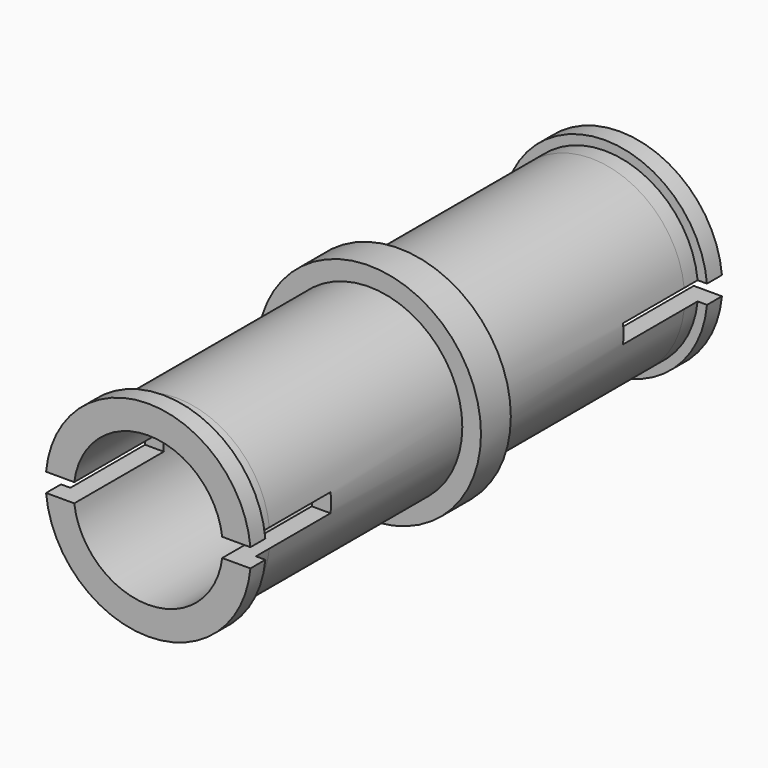
from build123d import *

# Parameters (mm, degrees)
F0_R      = 3
F0_R_2    = 2.499
F1_DEPTH  = 0.5
F0_R_3    = 1.999
F2_DEPTH  = 7.95
F3_R      = 2.75
F3_R_2    = 2.499
F3_R_3    = 1.999
F4_DEPTH  = 1
F6_DEPTH  = 3
F7_R      = 2.75
F7_R_2    = 2.499
F8_DEPTH  = 1
F10_DEPTH = 3
F11_DEPTH = 0.05
F12_DEPTH = 0.05
F13_DEPTH = 0.45
F14_DEPTH = 0.45


with BuildPart() as f1:
    # F0 (on Front) → F1 (new body, symmetric)
    with BuildSketch(Plane.XZ):
        Circle(F0_R)
        Circle(F0_R_2, mode=Mode.SUBTRACT)
    extrude(amount=F1_DEPTH, both=True)

    # F0 (on Front) → F2 (join, symmetric)
    with BuildSketch(Plane.XZ):
        Circle(F0_R_2)
        Circle(F0_R_3, mode=Mode.SUBTRACT)
    extrude(amount=F2_DEPTH, both=True)

    # F3 (on face) → F4 (join)
    with BuildSketch(Plane.XZ.offset(7.95)):
        Circle(F3_R)
        Circle(F3_R_2, mode=Mode.SUBTRACT)
        Circle(F3_R_2)
        Circle(F3_R_3, mode=Mode.SUBTRACT)
    extrude(amount=-F4_DEPTH)

    # F5 (on face) → F6 (cut)
    with BuildSketch(Plane.XZ.offset(7.95)):
        with BuildLine():
            Line((1.983305574, -0.25), (2.7386127875, -0.25))
            ThreePointArc((2.7386127875, -0.25), (2.75, 0), (2.7386127875, 0.25))
            Line((2.7386127875, 0.25), (1.983305574, 0.25))
            ThreePointArc((1.983305574, 0.25), (1.999, 0), (1.983305574, -0.25))
        make_face()
        with BuildLine():
            ThreePointArc((-1.983305574, -0.25), (-1.999, 0), (-1.983305574, 0.25))
            Line((-1.983305574, 0.25), (-2.7386127875, 0.25))
            ThreePointArc((-2.7386127875, 0.25), (-2.75, 0), (-2.7386127875, -0.25))
            Line((-2.7386127875, -0.25), (-1.983305574, -0.25))
        make_face()
    extrude(amount=-F6_DEPTH, mode=Mode.SUBTRACT)

    # F7 (on face) → F8 (join)
    with BuildSketch(Plane(origin=(0, 7.95, 0), x_dir=(-1, 0, 0), z_dir=(0, 1, 0))):
        Circle(F7_R)
        Circle(F7_R_2, mode=Mode.SUBTRACT)
        Circle(F7_R)
        Circle(F7_R_2, mode=Mode.SUBTRACT)
    extrude(amount=-F8_DEPTH)

    # F9 (on face) → F10 (cut)
    with BuildSketch(Plane(origin=(0, 7.95, 0), x_dir=(-1, 0, 0), z_dir=(0, 1, 0))):
        with BuildLine():
            ThreePointArc((2.7386127875, -0.25), (2.75, 0), (2.7386127875, 0.25))
            Line((2.7386127875, 0.25), (1.983305574, 0.25))
            ThreePointArc((1.983305574, 0.25), (1.999, 0), (1.983305574, -0.25))
            Line((1.983305574, -0.25), (2.7386127875, -0.25))
        make_face()
        with BuildLine():
            Line((-1.983305574, 0.25), (-2.7386127875, 0.25))
            ThreePointArc((-2.7386127875, 0.25), (-2.75, 0), (-2.7386127875, -0.25))
            Line((-2.7386127875, -0.25), (-1.983305574, -0.25))
            ThreePointArc((-1.983305574, -0.25), (-1.999, 0), (-1.983305574, 0.25))
        make_face()
    extrude(amount=-F10_DEPTH, mode=Mode.SUBTRACT)

    # F11 (cut): faces of the model
    f11_faces = [f1.faces().sort_by_distance(p)[0] for p in [
        (-2.3609591808, 7.95, 0.3102079729),
        (2.2442931831, 4.95, 0),
        (0, 7.95, -2.6897920271),
        (-2.2442931831, 4.95, 0),
    ]]
    extrude(f11_faces, amount=-F11_DEPTH, mode=Mode.SUBTRACT)

    # F12 (cut): faces of the model
    f12_faces = [f1.faces().sort_by_distance(p)[0] for p in [
        (0, -7.95, 2.0592079729),
        (-2.2442931831, -4.95, 0),
        (2.3609591808, -7.95, -0.3102079729),
        (2.2442931831, -4.95, 0),
    ]]
    extrude(f12_faces, amount=-F12_DEPTH, mode=Mode.SUBTRACT)

    # F13 (cut): faces of the model
    f13_faces = [f1.faces().sort_by_distance(p)[0] for p in [
        (-2.6125381702, 6.95, 0.3102079729),
        (0, 6.95, -2.6897920271),
    ]]
    extrude(f13_faces, amount=-F13_DEPTH, mode=Mode.SUBTRACT)

    # F14 (cut): faces of the model
    f14_faces = [f1.faces().sort_by_distance(p)[0] for p in [
        (2.6125381702, -6.95, 0.3102079729),
        (0, -6.95, -2.6897920271),
    ]]
    extrude(f14_faces, amount=-F14_DEPTH, mode=Mode.SUBTRACT)


solid = f1.part
